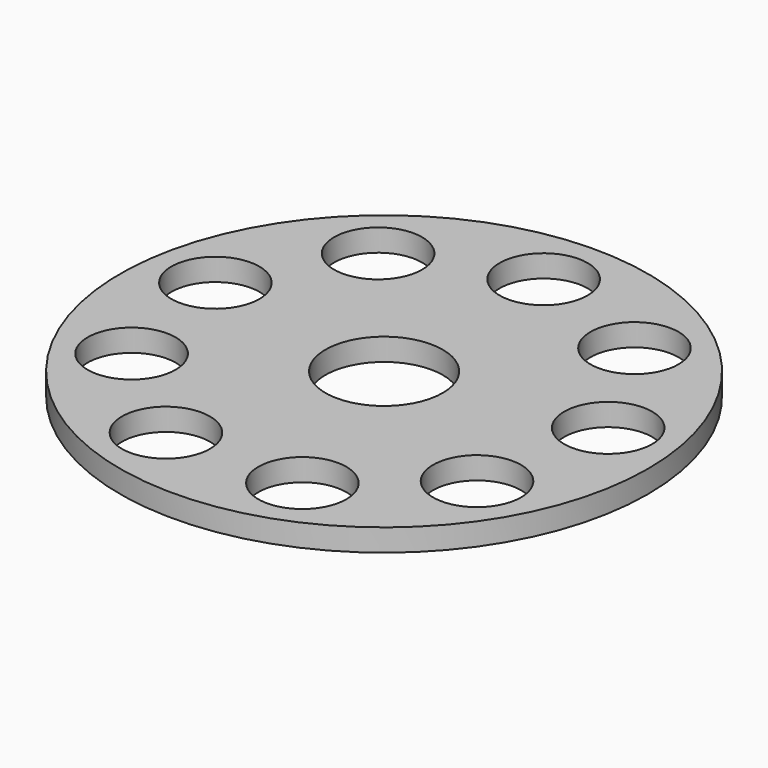
from build123d import *

# Parameters (mm, degrees)
F0_R     = 225
F1_DEPTH = 19
F2_R     = 50
F2_R_2   = 37.5
F3_DEPTH = 53


with BuildPart() as f1:
    # F0 (on Top) → F1 (new body)
    with BuildSketch(Plane.XY):
        Circle(F0_R)
    extrude(amount=F1_DEPTH)

    # F2 (on face) → F3 (cut)
    with BuildSketch(Plane.XY.offset(19)):
        Circle(F2_R)
        with Locations((0, 170)):
            Circle(F2_R_2)
        with Locations((-109.273894, 130.227555)):
            Circle(F2_R_2)
        with Locations((-167.417318, 29.52019)):
            Circle(F2_R_2)
        with Locations((-147.224319, -85)):
            Circle(F2_R_2)
        with Locations((-58.143424, -159.747746)):
            Circle(F2_R_2)
        with Locations((58.143424, -159.747746)):
            Circle(F2_R_2)
        with Locations((147.224319, -85)):
            Circle(F2_R_2)
        with Locations((167.417318, 29.52019)):
            Circle(F2_R_2)
        with Locations((109.273894, 130.227555)):
            Circle(F2_R_2)
    extrude(amount=-F3_DEPTH, mode=Mode.SUBTRACT)


solid = f1.part
